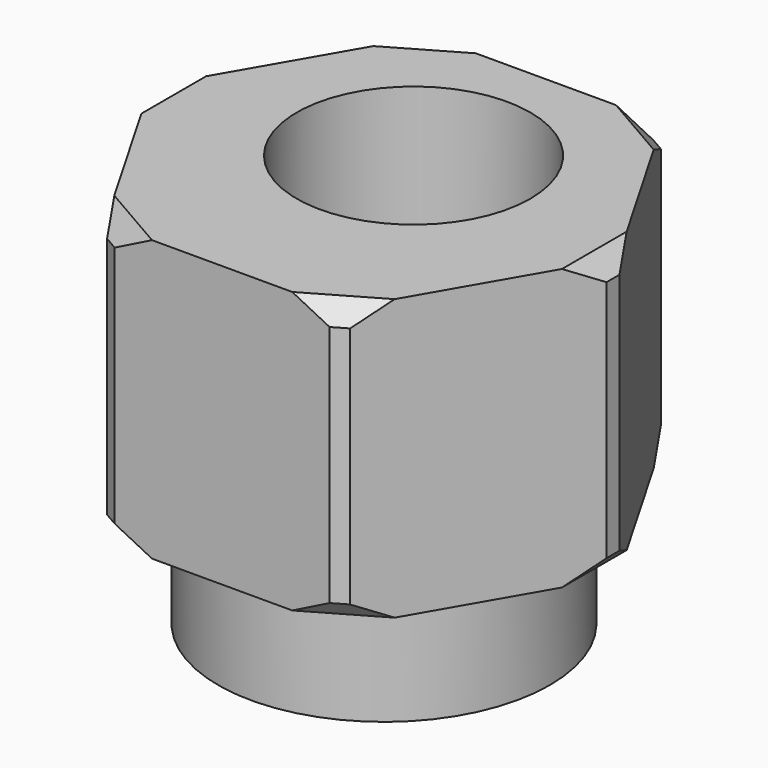
from build123d import *

# Parameters (mm, degrees)
CYLINDER_R      = 2.5
CYLINDER_DEPTH  = 8.5
TUBE_R          = 5
TUBE_R_2        = 3.55
TUBE_DEPTH      = 2.5
EXTRUDE_DEPTH   = 8.5
CHAMFER_SIZE    = 0.2
CHAMFER001_SIZE = 0.4


with BuildPart() as cylindre:
    # Cylinder → Cylinder (new body)
    with BuildSketch(Plane(origin=(0, 0.79, 0), x_dir=(1, 0, 0), z_dir=(0, 0, 1))):
        Circle(CYLINDER_R)
    extrude(amount=CYLINDER_DEPTH)


with BuildPart() as tube:
    # Tube → Tube (new body)
    with BuildSketch(Plane.XY):
        Circle(TUBE_R)
        Circle(TUBE_R_2, mode=Mode.SUBTRACT)
    extrude(amount=TUBE_DEPTH)


with BuildPart() as chamfer001:
    # RegularPolygon → Extrude (new body)
    with BuildSketch(Plane(origin=(0, 0, 0), x_dir=(0, 1, 0), z_dir=(0, 0, 1))):
        Polygon((0, -5), (4.330127, -2.5), (4.330127, 2.5), (0, 5), (-4.330127, 2.5), (-4.330127, -2.5), align=None)
    extrude(amount=EXTRUDE_DEPTH)

    # Cut: cut Tube
    add(tube.part, mode=Mode.SUBTRACT)

    # Cut001: cut Cylindre
    add(cylindre.part, mode=Mode.SUBTRACT)

    # Chamfer
    chamfer_edges = [chamfer001.edges().sort_by_distance(p)[0] for p in [
        (2.5, 4.330127, 5.5),
        (5, 0, 5.5),
        (-2.5, 4.330127, 5.5),
        (2.5, -4.330127, 5.5),
        (-2.5, -4.330127, 5.5),
        (-5, 0, 5.5),
    ]]
    chamfer(chamfer_edges, length=CHAMFER_SIZE)

    # Chamfer001
    chamfer001_edges = [chamfer001.edges().sort_by_distance(p)[0] for p in [
        (4.9, 0, 2.5),
        (2.45, 4.243524, 2.5),
        (-2.45, 4.243524, 2.5),
        (-4.9, 0, 2.5),
        (-2.45, -4.243524, 2.5),
        (2.45, -4.243524, 2.5),
        (4.9, 0, 8.5),
        (2.45, 4.243524, 8.5),
        (-2.45, 4.243524, 8.5),
        (-4.9, 0, 8.5),
        (-2.45, -4.243524, 8.5),
        (2.45, -4.243524, 8.5),
    ]]
    chamfer(chamfer001_edges, length=CHAMFER001_SIZE)


solid = chamfer001.part
